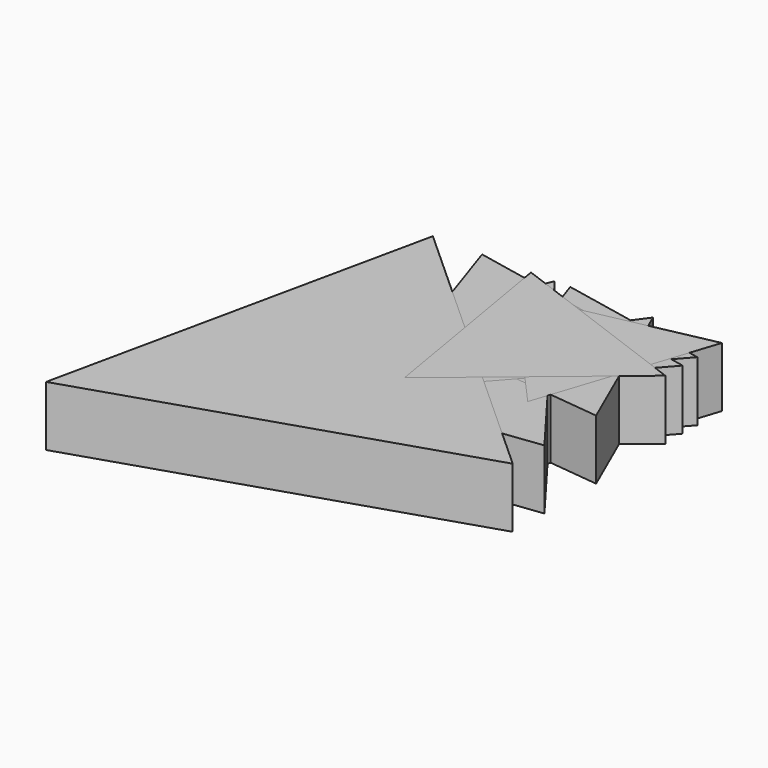
from build123d import *

# Parameters (mm, degrees)
PAD_DEPTH    = 10
PAD001_DEPTH = 10
PAD002_DEPTH = 10
PAD003_DEPTH = 10
PAD004_DEPTH = 10
PAD005_DEPTH = 10
PAD006_DEPTH = 10
PAD007_DEPTH = 10
PAD008_DEPTH = 10


with BuildPart() as body001:
    # Sketch → Pad (new body)
    with BuildSketch(Plane.XY):
        Polygon((0, 0), (45.987872, 5.648683), (18.102033, 42.651007), align=None)
    extrude(amount=PAD_DEPTH)


with BuildPart() as body001_1:
    # Body001 placement: moved
    add(body001.part.moved(Location((-45.987872, -42.651007, 0))))


with BuildPart() as body002:
    # Sketch001 → Pad001 (new body)
    with BuildSketch(Plane.XY):
        Polygon((0, 0), (-11.495134, 26.22936), (-28.462859, 3.159603), align=None)
    extrude(amount=PAD001_DEPTH)


with BuildPart() as body002_1:
    # Body002 placement: moved
    add(body002.part.moved(Location((0, -26.22936, 0))))


with BuildPart() as body003:
    # Sketch002 → Pad002 (new body)
    with BuildSketch(Plane.XY):
        Polygon((0, 0), (8.205842, -24.465275), (25.290471, -5.12617), align=None)
    extrude(amount=PAD002_DEPTH)


with BuildPart() as body003_1:
    # Body003 placement: moved
    add(body003.part.moved(Location((-25.290471, 0, 0))))


with BuildPart() as body004:
    # Sketch003 → Pad003 (new body)
    with BuildSketch(Plane.XY):
        Polygon((0, 0), (27.073405, 30.548265), (-12.918871, 38.720389), align=None)
    extrude(amount=PAD003_DEPTH)


with BuildPart() as body004_1:
    # Body004 placement: moved
    add(body004.part.moved(Location((-27.073405, -38.720389, 0))))


with BuildPart() as body005:
    # Sketch004 → Pad004 (new body)
    with BuildSketch(Plane.XY):
        Polygon((0, 0), (-29.562009, -6.185213), (-9.424453, -28.694057), align=None)
    extrude(amount=PAD004_DEPTH)


with BuildPart() as body006:
    # Sketch005 → Pad005 (new body)
    with BuildSketch(Plane.XY):
        Polygon((0, 0), (-13.660303, -63.548782), (48.204708, -43.604561), align=None)
    extrude(amount=PAD005_DEPTH)


with BuildPart() as body006_1:
    # Body006 placement: moved
    add(body006.part.moved(Location((-48.204708, 0, 0))))


with BuildPart() as body007:
    # Sketch006 → Pad006 (new body)
    with BuildSketch(Plane.XY):
        Polygon((0, 0), (-31.835562, 11.811761), (-26.147066, -21.664525), align=None)
    extrude(amount=PAD006_DEPTH)


with BuildPart() as body007_1:
    # Body007 placement: moved
    add(body007.part.moved(Location((0, -11.811761, 0))))


with BuildPart() as body008:
    # Sketch007 → Pad007 (new body)
    with BuildSketch(Plane.XY):
        Polygon((0, 0), (-31.835562, 11.811761), (-26.147066, -21.664525), align=None)
    extrude(amount=PAD007_DEPTH)


with BuildPart() as body008_1:
    # Body008 placement: moved
    add(body008.part.moved(Location((0, -11.811761, 0))))


with BuildPart() as body009:
    # Sketch008 → Pad008 (new body)
    with BuildSketch(Plane.XY):
        Polygon((0, 0), (-31.835562, 11.811761), (-26.147066, -21.664525), align=None)
    extrude(amount=PAD008_DEPTH)


with BuildPart() as body009_1:
    # Body009 placement: moved
    add(body009.part.moved(Location((0, -11.811761, 0))))


solid = Compound([body001_1.part, body002_1.part, body003_1.part, body004_1.part, body005.part, body006_1.part, body007_1.part, body008_1.part, body009_1.part])
